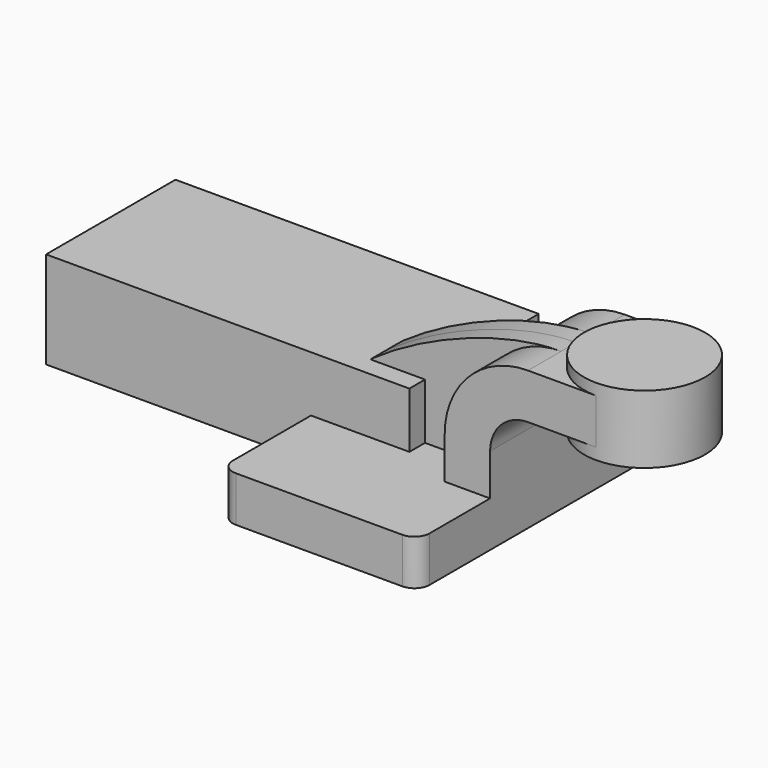
from build123d import *

# Parameters (mm, degrees)
F1_DEPTH = 63.5
F0_W     = 25.4
F0_H     = 19.05
F2_DEPTH = 25.4
F3_DEPTH = 7.9375
F5_R     = 6.35
F6_W     = 67.8333491087
F6_H     = 40.6632423401
F7_DEPTH = 152.4


with BuildPart() as f1:
    # F0 (on Front) → F1 (new body, symmetric)
    with BuildSketch(Plane.XZ):
        Polygon((41.275, -9.525), (41.275, 9.525), (22.225, 9.525), (-41.275, 9.525), (-41.275, -9.525), align=None)
    extrude(amount=F1_DEPTH, both=True)

    # F0 (on Front) → F2 (join, symmetric)
    with BuildSketch(Plane.XZ):
        with BuildLine():
            Line((22.225, 9.525), (41.275, 9.525))
            Line((41.275, 9.525), (41.275, 27.0002))
            ThreePointArc((41.275, 27.0002), (45.9246798487, 38.2255201513), (57.15, 42.8752))
            Line((57.15, 42.8752), (60.325, 42.8752))
            Line((60.325, 42.8752), (60.325, 61.9252))
            Line((60.325, 61.9252), (57.15, 61.9252))
            ThreePointArc((57.15, 61.9252), (32.4542956671, 51.6959043329), (22.225, 27.0002))
            Line((22.225, 27.0002), (22.225, 9.525))
        make_face()
        with Locations((73.025, 52.4002)):
            Rectangle(F0_W, F0_H)
    extrude(amount=F2_DEPTH, both=True)

    # F0 (on Front) → F3 (join, symmetric)
    with BuildSketch(Plane.XZ):
        with BuildLine():
            Line((-41.275, 9.525), (22.225, 9.525))
            Line((22.225, 9.525), (22.225, 27.0002))
            ThreePointArc((22.225, 27.0002), (32.4542956671, 51.6959043329), (57.15, 61.9252))
            add(Edge.make_bspline(
                [(-41.275, 9.525), (-41.275, 29.0353409946), (18.0341433734, 61.9252), (57.15, 61.9252)],
                knots=[0, 0, 0, 0, 111.5045361635, 111.5045361635, 111.5045361635, 111.5045361635], degree=3))
        make_face()
    extrude(amount=F3_DEPTH, both=True)

    # F0 (on Front) → F4 (revolve)
    with BuildSketch(Plane.XZ):
        Polygon((85.725, 61.9252), (85.725, 42.8752), (85.725, 38.1), (111.125, 38.1), (111.125, 66.675), (85.725, 66.675), align=None)
    revolve(axis=Axis((85.725, 0, 52.3875), (0, 0, 1)))

    # F5
    f5_edges = [f1.edges().sort_by_distance(p)[0] for p in [
        (41.275, -63.5, 0),
        (-41.275, -63.5, 0),
        (41.275, 63.5, 0),
        (-41.275, 63.5, 0),
    ]]
    fillet(f5_edges, radius=F5_R)


with BuildPart() as f7:
    # F6 (on Right) → F7 (new body)
    with BuildSketch(Plane.YZ):
        with Locations((17.7727490664, 12.5733539462)):
            Rectangle(F6_W, F6_H)
    extrude(amount=-F7_DEPTH)


solid = Compound([f1.part, f7.part])
